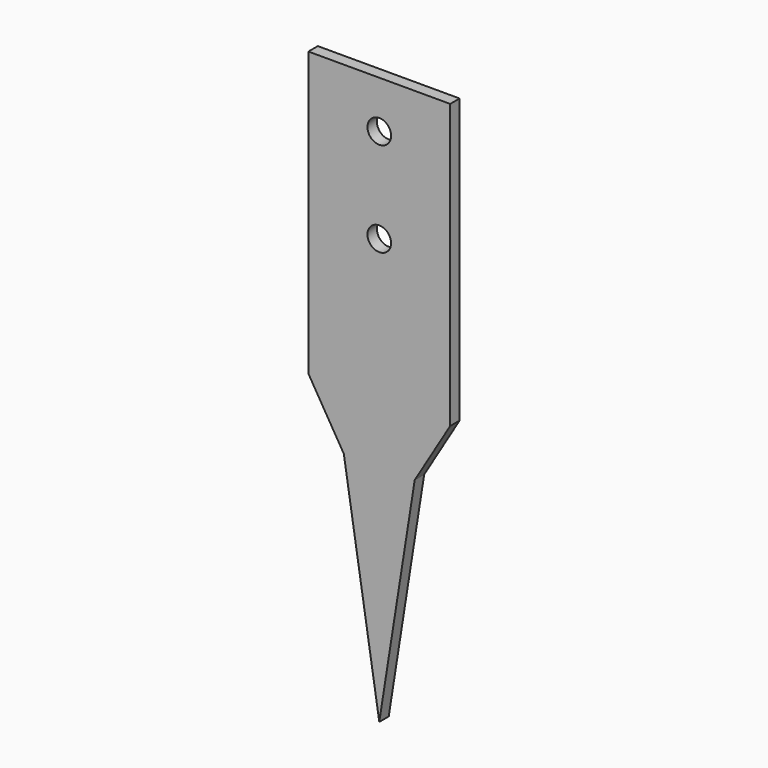
from build123d import *

# Parameters (mm, degrees)
F0_W     = 76.2
F0_H     = 152.4
F1_DEPTH = 6.35
F2_R     = 6.35
F3_DEPTH = 25.4


with BuildPart() as f1:
    # F0 (on Front) → F1 (new body)
    with BuildSketch(Plane.XZ):
        Rectangle(F0_W, F0_H)
        Polygon((19.05, -107.95), (38.1, -76.2), (-38.1, -76.2), (-19.05, -107.95), (0, -228.6), align=None)
    extrude(amount=F1_DEPTH)

    # F2 (on face) → F3 (cut)
    with BuildSketch(Plane.XZ.offset(6.35)):
        with Locations((0, 50.8)):
            Circle(F2_R)
        Circle(F2_R)
    extrude(amount=-F3_DEPTH, mode=Mode.SUBTRACT)


solid = f1.part
